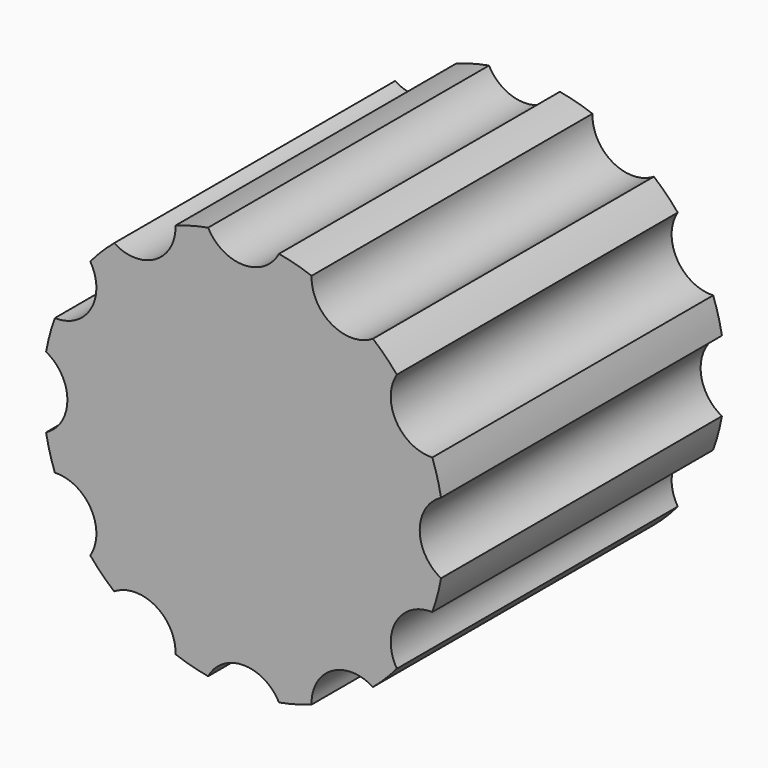
from build123d import *

# Parameters (mm, degrees)
F1_DEPTH = 35


with BuildPart() as f1:
    # F0 (on Front) → F1 (new body)
    with BuildSketch(Plane.XZ):
        with BuildLine():
            ThreePointArc((3.533072, 19.685462), (0, 17.560935), (-3.533072, 19.685462))
            ThreePointArc((-3.533072, 19.685462), (-5.176381, 19.318517), (-6.783001, 18.814646))
            ThreePointArc((-6.783001, 18.814646), (-8.780468, 15.208216), (-12.902461, 15.281574))
            ThreePointArc((-12.902461, 15.281574), (-14.142136, 14.142136), (-15.281574, 12.902461))
            ThreePointArc((-15.281574, 12.902461), (-15.208216, 8.780468), (-18.814646, 6.783001))
            ThreePointArc((-18.814646, 6.783001), (-19.318517, 5.176381), (-19.685462, 3.533072))
            ThreePointArc((-19.685462, 3.533072), (-17.560935, 0), (-19.685462, -3.533072))
            ThreePointArc((-19.685462, -3.533072), (-19.318517, -5.176381), (-18.814646, -6.783001))
            ThreePointArc((-18.814646, -6.783001), (-15.208216, -8.780468), (-15.281574, -12.902461))
            ThreePointArc((-15.281574, -12.902461), (-14.142136, -14.142136), (-12.902461, -15.281574))
            ThreePointArc((-12.902461, -15.281574), (-8.780468, -15.208216), (-6.783001, -18.814646))
            ThreePointArc((-6.783001, -18.814646), (-5.176381, -19.318517), (-3.533072, -19.685462))
            ThreePointArc((-3.533072, -19.685462), (0, -17.560935), (3.533072, -19.685462))
            ThreePointArc((3.533072, -19.685462), (5.176381, -19.318517), (6.783001, -18.814646))
            ThreePointArc((6.783001, -18.814646), (8.780468, -15.208216), (12.902461, -15.281574))
            ThreePointArc((12.902461, -15.281574), (14.142136, -14.142136), (15.281574, -12.902461))
            ThreePointArc((15.281574, -12.902461), (15.208216, -8.780468), (18.814646, -6.783001))
            ThreePointArc((18.814646, -6.783001), (19.318517, -5.176381), (19.685462, -3.533072))
            ThreePointArc((19.685462, -3.533072), (17.560935, 0), (19.685462, 3.533072))
            ThreePointArc((19.685462, 3.533072), (19.318517, 5.176381), (18.814646, 6.783001))
            ThreePointArc((18.814646, 6.783001), (15.208216, 8.780468), (15.281574, 12.902461))
            ThreePointArc((15.281574, 12.902461), (14.142136, 14.142136), (12.902461, 15.281574))
            ThreePointArc((12.902461, 15.281574), (8.780468, 15.208216), (6.783001, 18.814646))
            ThreePointArc((6.783001, 18.814646), (5.176381, 19.318517), (3.533072, 19.685462))
        make_face()
    extrude(amount=F1_DEPTH)


solid = f1.part
